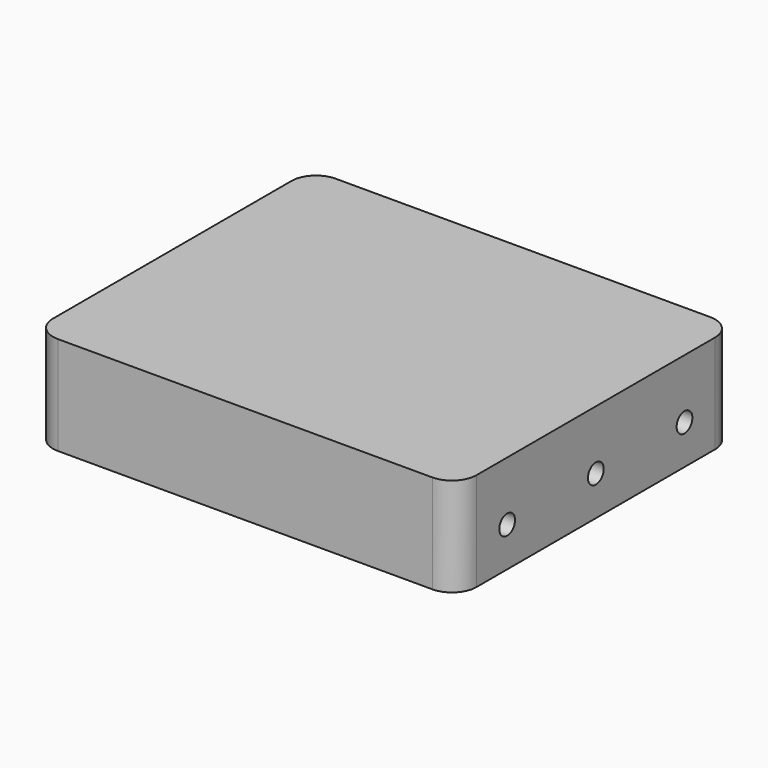
from build123d import *

# Parameters (mm, degrees)
F0_W     = 86
F0_H     = 70.5
F0_W_2   = 80
F0_H_2   = 19.5
F1_DEPTH = 3
F2_DEPTH = 17
F4_D     = 4
F5_R     = 3
F6_R     = 5


with BuildPart() as f1:
    # F0 (on Top) → F1 (new body)
    with BuildSketch(Plane.XY):
        Rectangle(F0_W, F0_H)
        with Locations((0, -22.5)):
            Rectangle(F0_W_2, F0_H_2, mode=Mode.SUBTRACT)
        Rectangle(F0_W_2, F0_H_2, mode=Mode.SUBTRACT)
        with Locations((0, 22.5)):
            Rectangle(F0_W_2, F0_H_2, mode=Mode.SUBTRACT)
        with Locations((0, -22.5)):
            Rectangle(F0_W_2, F0_H_2)
        Rectangle(F0_W_2, F0_H_2)
        with Locations((0, 22.5)):
            Rectangle(F0_W_2, F0_H_2)
    extrude(amount=F1_DEPTH)

    # F0 (on Top) → F2 (join)
    with BuildSketch(Plane.XY):
        Rectangle(F0_W, F0_H)
        with Locations((0, -22.5)):
            Rectangle(F0_W_2, F0_H_2, mode=Mode.SUBTRACT)
        Rectangle(F0_W_2, F0_H_2, mode=Mode.SUBTRACT)
        with Locations((0, 22.5)):
            Rectangle(F0_W_2, F0_H_2, mode=Mode.SUBTRACT)
    extrude(amount=-F2_DEPTH)

    # F4 (through all)
    with Locations(Plane(origin=(-43, 0, 0), x_dir=(0, -1, 0), z_dir=(-1, 0, 0))):
        with Locations((-22.5, -9), (0, -9), (22.5, -9)):
            Hole(F4_D / 2)

    # F5
    f5_edges = [f1.edges().sort_by_distance(p)[0] for p in [
        (40, 32.25, -8.5),
        (-40, 32.25, -8.5),
        (-40, 12.75, -8.5),
        (40, 12.75, -8.5),
        (40, -9.75, -8.5),
        (-40, -9.75, -8.5),
        (-40, 9.75, -8.5),
        (40, 9.75, -8.5),
        (40, -12.75, -8.5),
        (-40, -12.75, -8.5),
        (-40, -32.25, -8.5),
        (40, -32.25, -8.5),
    ]]
    fillet(f5_edges, radius=F5_R)

    # F6
    f6_edges = [f1.edges().sort_by_distance(p)[0] for p in [
        (43, 35.25, -7),
        (43, -35.25, -7),
        (-43, -35.25, -7),
        (-43, 35.25, -7),
    ]]
    fillet(f6_edges, radius=F6_R)


solid = f1.part
